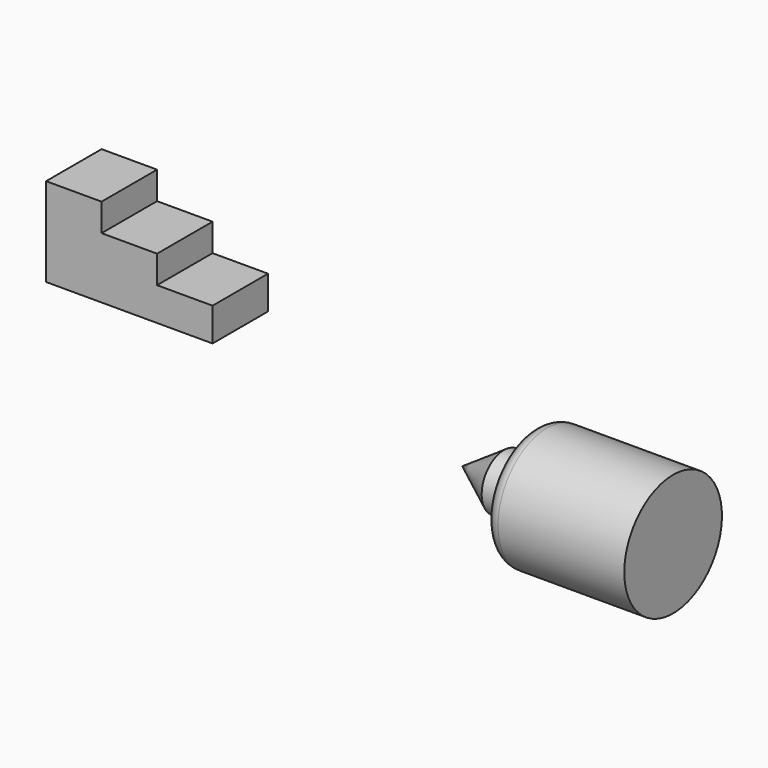
from build123d import *

# Parameters (mm, degrees)
F0_W     = 20
F0_H     = 10
F1_DEPTH = 12.5
F0_W_2   = 25.5
F0_W_3   = 10.5


with BuildPart() as f1:
    # F0 (on Front) → F1 (new body, symmetric)
    with BuildSketch(Plane.XZ):
        with Locations((10, 45)):
            Rectangle(F0_W, F0_H)
        Polygon((40, 30), (0, 30), (0, 18), (60, 18), (60, 30), align=None)
        Polygon((20, 40), (0, 40), (0, 30), (40, 30), (40, 40), align=None)
    extrude(amount=F1_DEPTH, both=True)


with BuildPart() as f2:
    # F0 (on Front) → F2 (revolve)
    with BuildSketch(Plane.XZ):
        with Locations((178.25, 5)):
            Rectangle(F0_W_2, F0_H)
        with Locations((160.25, 5)):
            Rectangle(F0_W_3, F0_H)
        Polygon((155, 10), (140, 0), (155, 0), align=None)
        with BuildLine():
            Line((165.5, 17), (165.5, 10))
            Line((165.5, 10), (191, 10))
            Line((191, 10), (191, 22))
            Line((191, 22), (170.5, 22))
            ThreePointArc((170.5, 22), (166.9644660941, 20.5355339059), (165.5, 17))
        make_face()
        Polygon((191, 22), (191, 10), (191, 0), (216, 0), (216, 22), align=None)
    revolve(axis=Axis((178.25, 0, 0), (1, 0, 0)))


solid = Compound([f1.part, f2.part])
